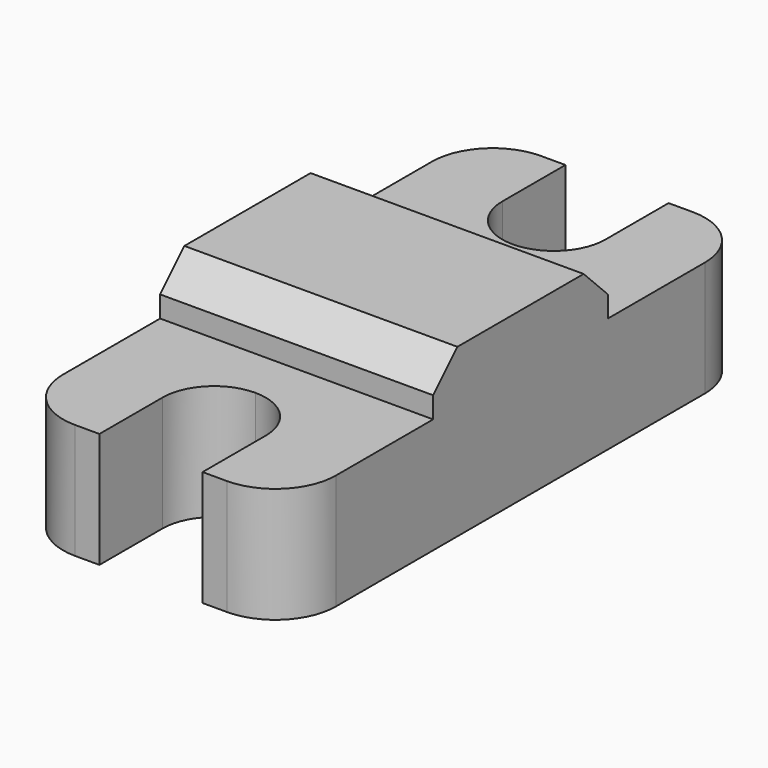
from build123d import *

# Parameters (mm, degrees)
F1_DEPTH = 3.8
F3_DEPTH = 4.5


with BuildPart() as f1:
    # F0 (on Top) → F1 (new body)
    with BuildSketch(Plane.XY):
        with BuildLine():
            Line((4.5, -7.6), (4.5, 0))
            Line((4.5, 0), (0, 0))
            Line((0, 0), (0, -5.3))
            ThreePointArc((0, -5.3), (1.202082, -5.797918), (1.7, -7))
            Line((1.7, -7), (1.7, -9.6))
            Line((1.7, -9.6), (2.5, -9.6))
            ThreePointArc((2.5, -9.6), (3.914214, -9.014214), (4.5, -7.6))
        make_face()
    extrude(amount=F1_DEPTH)

    # F2 (on face) → F3 (join, through all)
    with BuildSketch(Plane.YZ.offset(4.5)):
        Polygon((-3.6, 4.5), (-3.6, 3.8), (0, 3.8), (0, 5.5), (-2.6, 5.5), align=None)
    extrude(amount=-F3_DEPTH)

    # F4: F1 across face


with BuildPart() as f1_1:
    add(f1.part)
    add(f1.part.mirror(Plane(origin=(0, -2.43609, 2.489933), x_dir=(0, -1, 0), z_dir=(-1, 0, 0))))

    # F5: F1 across face


with BuildPart() as f1_2:
    add(f1_1.part)
    add(f1_1.part.mirror(Plane(origin=(0, 0, 2.75), x_dir=(-1, 0, 0), z_dir=(0, 1, 0))))


solid = f1_2.part
